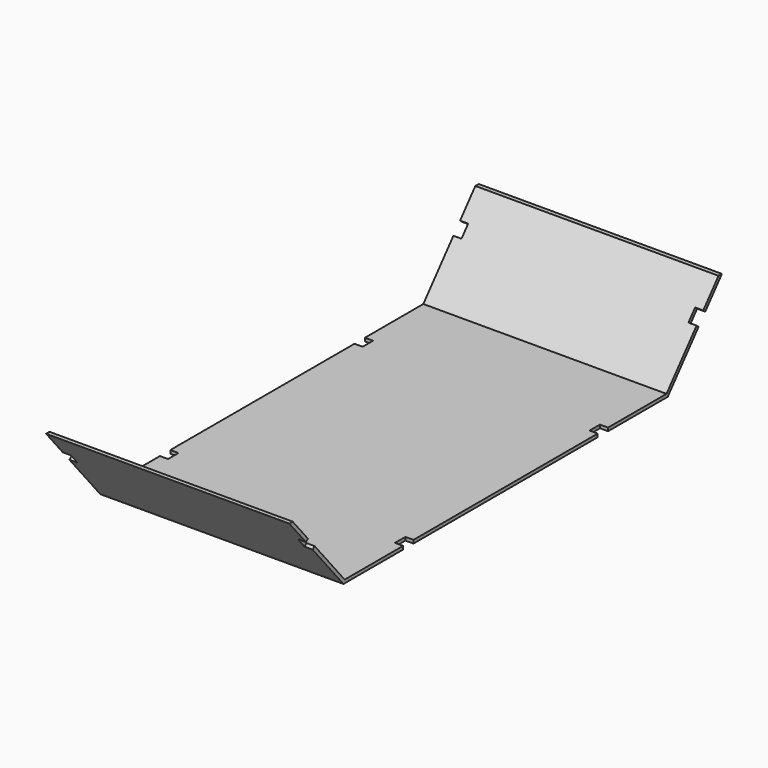
from build123d import *

# Parameters (mm, degrees)
F1_DEPTH = 75
F2_W     = 8
F2_H     = 2
F3_DEPTH = 5


with BuildPart() as f1:
    # F0 (on Right) → F1 (new body, symmetric)
    with BuildSketch(Plane.YZ):
        Polygon((-167.3746470185, 49.7928888027), (-125.5934523889, 0), (124.4065476111, 0), (166.1877422407, 49.7928888027), (163.5769276621, 49.7928888027), (123.4739322948, 2), (-124.6608370726, 2), (-164.7638324399, 49.7928888027), align=None)
    extrude(amount=F1_DEPTH, both=True)

    # F2 (on face) → F3 (cut)
    with BuildSketch(Plane.YZ.offset(75)):
        with Locations((-75.5934523889, 1)):
            Rectangle(F2_W, F2_H)
        with Locations((74.4065476111, 1)):
            Rectangle(F2_W, F2_H)
        Polygon((151.7999011608, 35.7575751597), (146.6576002833, 29.6292196148), (148.1896891695, 28.3436443954), (153.331990047, 34.4719999404), align=None)
        Polygon((-149.3765939473, 28.3436443954), (-147.8445050611, 29.6292196148), (-152.9868059385, 35.7575751597), (-154.5188948248, 34.4719999404), align=None)
    extrude(amount=-F3_DEPTH, mode=Mode.SUBTRACT)

    # F4: F1 across plane


with BuildPart() as f1_1:
    add(f1.part)
    add(f1.part.mirror(Plane.YZ), mode=Mode.INTERSECT)


solid = f1_1.part
